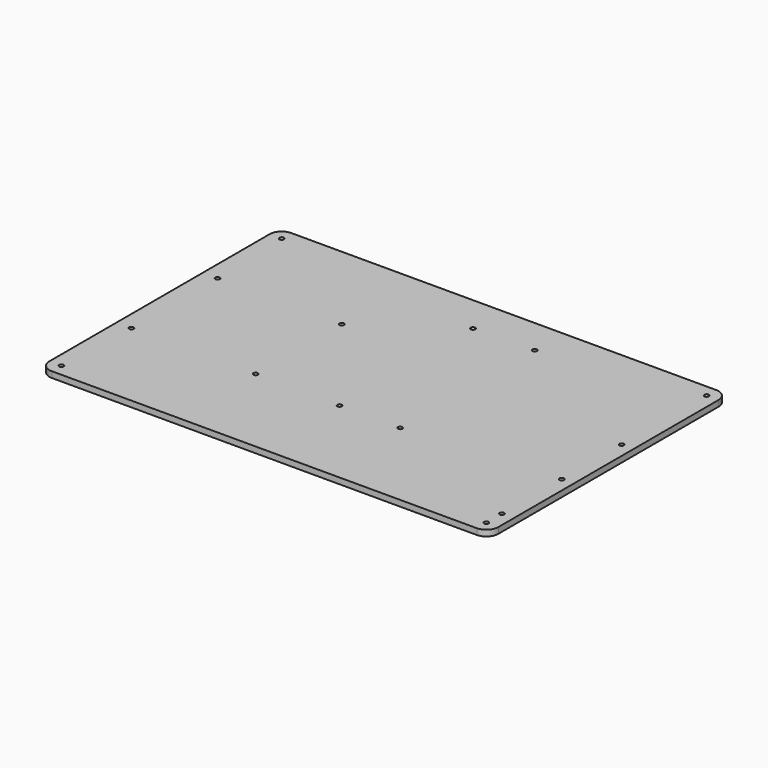
from build123d import *

# Parameters (mm, degrees)
F0_R     = 1.5
F1_DEPTH = 4


with BuildPart() as f1:
    # F0 (on Top) → F1 (new body)
    with BuildSketch(Plane.XY):
        with BuildLine():
            Line((-142, -100), (142, -100))
            ThreePointArc((142, -100), (147.656854, -97.656854), (150, -92))
            Line((150, -92), (150, 92))
            ThreePointArc((150, 92), (147.656854, 97.656854), (142, 100))
            Line((142, 100), (-142, 100))
            ThreePointArc((-142, 100), (-147.656854, 97.656854), (-150, 92))
            Line((-150, 92), (-150, -92))
            ThreePointArc((-150, -92), (-147.656854, -97.656854), (-142, -100))
        make_face()
        with Locations((-142, -92)):
            Circle(F0_R, mode=Mode.SUBTRACT)
        with Locations((-140, -36)):
            Circle(F0_R, mode=Mode.SUBTRACT)
        with Locations((-57, -36)):
            Circle(F0_R, mode=Mode.SUBTRACT)
        with Locations((-0.5, -36.5)):
            Circle(F0_R, mode=Mode.SUBTRACT)
        with Locations((142, -92)):
            Circle(F0_R, mode=Mode.SUBTRACT)
        with Locations((142, -79)):
            Circle(F0_R, mode=Mode.SUBTRACT)
        with Locations((40, -36.5)):
            Circle(F0_R, mode=Mode.SUBTRACT)
        with Locations((142, -29)):
            Circle(F0_R, mode=Mode.SUBTRACT)
        with Locations((-140, 36)):
            Circle(F0_R, mode=Mode.SUBTRACT)
        with Locations((-57, 36)):
            Circle(F0_R, mode=Mode.SUBTRACT)
        with Locations((-142, 92)):
            Circle(F0_R, mode=Mode.SUBTRACT)
        with Locations((-0.5, 75)):
            Circle(F0_R, mode=Mode.SUBTRACT)
        with Locations((142, 21)):
            Circle(F0_R, mode=Mode.SUBTRACT)
        with Locations((40, 75.9)):
            Circle(F0_R, mode=Mode.SUBTRACT)
        with Locations((142, 92)):
            Circle(F0_R, mode=Mode.SUBTRACT)
    extrude(amount=F1_DEPTH)


solid = f1.part
